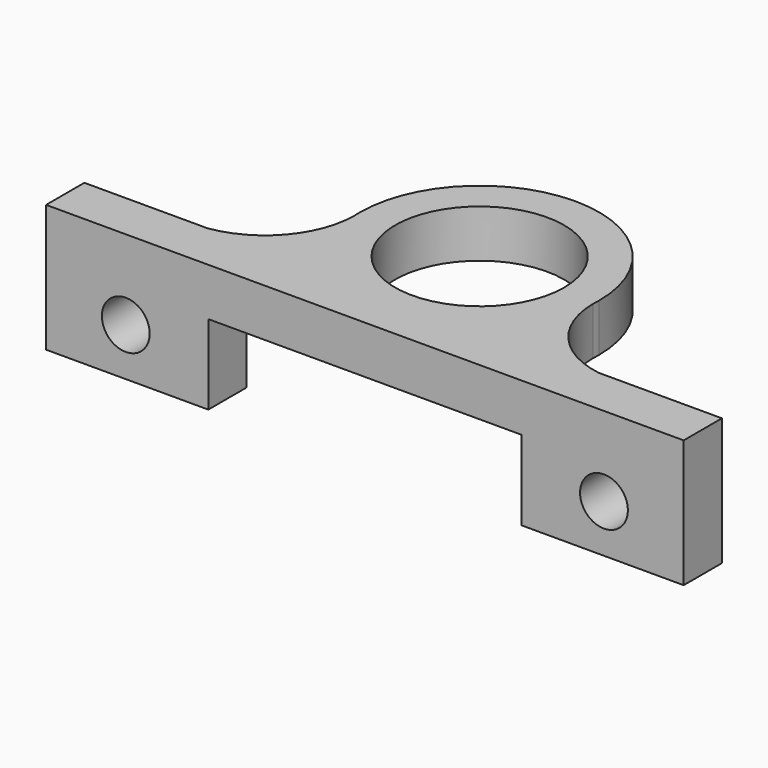
from build123d import *

# Parameters (mm, degrees)
F0_R     = 5.3
F1_DEPTH = 3
F2_W     = 10.177304
F2_H     = 3
F3_DEPTH = 5
F4_R     = 1.5
F5_DEPTH = 5


with BuildPart() as f1:
    # F0 (on Top) → F1 (new body)
    with BuildSketch(Plane.XY):
        with BuildLine():
            Line((-12.261554, 0), (-20, 0))
            Line((-20, 0), (-20, -3))
            Line((-20, -3), (0, -3))
            Line((0, -3), (20, -3))
            Line((20, -3), (20, 0))
            Line((20, 0), (12.261554, 0))
            ThreePointArc((12.261554, 0), (8.853776, 1.888736), (7.485685, 5.536832))
            ThreePointArc((7.485685, 5.536832), (7.488618, 5.754393), (7.499947, 5.971679))
            ThreePointArc((7.499947, 5.971679), (0, 13.5), (-7.499947, 5.971679))
            ThreePointArc((-7.499947, 5.971679), (-7.488618, 5.754393), (-7.485685, 5.536832))
            ThreePointArc((-7.485685, 5.536832), (-8.853776, 1.888736), (-12.261554, 0))
        make_face()
        with Locations((0, 6)):
            Circle(F0_R, mode=Mode.SUBTRACT)
        with BuildLine():
            ThreePointArc((-7.499947, 5.971679), (-7.495969, 5.754152), (-7.485685, 5.536832))
            ThreePointArc((-7.485685, 5.536832), (-7.488618, 5.754393), (-7.499947, 5.971679))
        make_face()
        with BuildLine():
            ThreePointArc((7.485685, 5.536832), (7.495969, 5.754152), (7.499947, 5.971679))
            ThreePointArc((7.499947, 5.971679), (7.488618, 5.754393), (7.485685, 5.536832))
        make_face()
    extrude(amount=F1_DEPTH)

    # F2 (on face) → F3 (join)
    with BuildSketch(Plane(origin=(0, 0, 0), x_dir=(1, 0, 0), z_dir=(0, 0, -1))):
        with Locations((-14.911348, 1.5)):
            Rectangle(F2_W, F2_H)
        with Locations((14.911348, 1.5)):
            Rectangle(F2_W, F2_H)
    extrude(amount=F3_DEPTH)

    # F4 (on face) → F5 (cut)
    with BuildSketch(Plane(origin=(0, 0, 0), x_dir=(-1, 0, 0), z_dir=(0, 1, 0))):
        with Locations((-15, -2)):
            Circle(F4_R)
        with Locations((15, -2)):
            Circle(F4_R)
    extrude(amount=-F5_DEPTH, mode=Mode.SUBTRACT)


solid = f1.part
